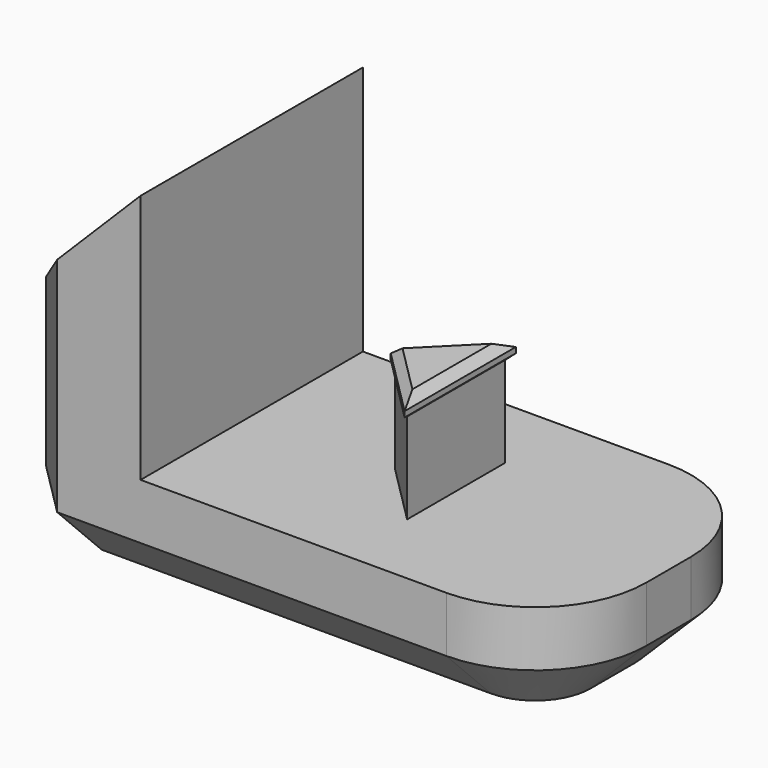
from build123d import *

# Parameters (mm, degrees)
PAD_DEPTH       = 10
PAD001_DEPTH    = 3.3
PAD002_DEPTH    = 0.6
CHAMFER004_SIZE = 0.1
CHAMFER005_SIZE = 0.3
FILLET_R        = 4
CHAMFER_SIZE    = 2


with BuildPart() as part:
    # Sketch → Pad (new body)
    with BuildSketch(Plane.XZ):
        Polygon((0, 8), (0, 0), (20, 0), (20, 4), (5, 4), (5, 13), align=None)
    extrude(amount=PAD_DEPTH)

    # Sketch001 → Pad001 (new body)
    with BuildSketch(Plane(origin=(0, 0, 4), x_dir=(-1, 0, 0), z_dir=(0, 0, 1))):
        Polygon((-12.35, 7.2), (-12.35, 2.8), (-10.15, 5), align=None)
    extrude(amount=PAD001_DEPTH)

    # Sketch003 → Pad002 (new body)
    with BuildSketch(Plane(origin=(0, 0, 7.3), x_dir=(-1, 0, 0), z_dir=(0, 0, 1))):
        Polygon((-12.5, 2.5), (-10, 5), (-12.5, 7.5), align=None)
    extrude(amount=PAD002_DEPTH)

    # Chamfer004
    chamfer004_edges = [part.edges().sort_by_distance(p)[0] for p in [
        (12.5, -5, 7.3),
        (11.25, -6.25, 7.3),
        (11.25, -3.75, 7.3),
    ]]
    chamfer(chamfer004_edges, length=CHAMFER004_SIZE)

    # Chamfer005
    chamfer005_edges = [part.edges().sort_by_distance(p)[0] for p in [
        (12.5, -5, 7.9),
        (11.25, -3.75, 7.9),
        (11.25, -6.25, 7.9),
    ]]
    chamfer(chamfer005_edges, length=CHAMFER005_SIZE)

    # Fillet
    fillet_edges = [part.edges().sort_by_distance(p)[0] for p in [
        (20, 0, 2),
        (20, -10, 2),
    ]]
    fillet(fillet_edges, radius=FILLET_R)

    # Chamfer
    chamfer_edges = [part.edges().sort_by_distance(p)[0] for p in [
        (8, 0, 0),
        (18.828427, -1.171573, 0),
        (20, -5, 0),
        (18.828427, -8.828427, 0),
        (8, -10, 0),
        (0, -5, 0),
        (0, 0, 4),
        (0, -10, 4),
    ]]
    chamfer(chamfer_edges, length=CHAMFER_SIZE)


solid = part.part
